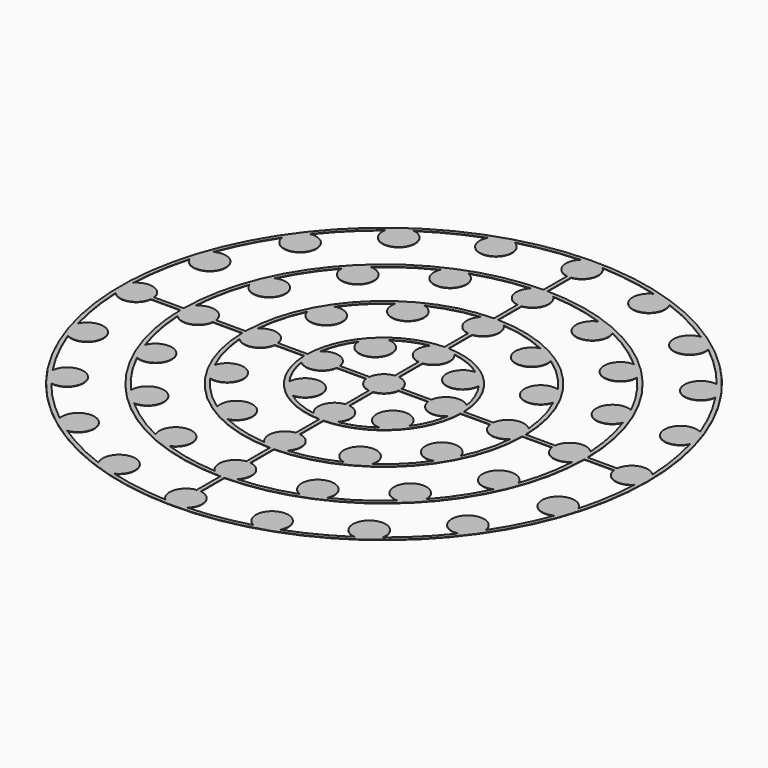
from build123d import *

# Parameters (mm, degrees)
SKETCH001_R           = 130
PAD_DEPTH             = 0.2
SKETCH002_R           = 8
PAD001_DEPTH          = 0.2
POLARPATTERN_COUNT    = 20
SKETCH003_R           = 8
PAD002_DEPTH          = 0.2
POLARPATTERN001_COUNT = 16
SKETCH004_R           = 8
PAD003_DEPTH          = 0.2
POLARPATTERN002_COUNT = 12
SKETCH005_R           = 8
PAD004_DEPTH          = 0.2
POLARPATTERN003_COUNT = 8


with BuildPart() as part:
    # Sketch001 → Pad (new body)
    with BuildSketch(Plane.XY):
        Circle(SKETCH001_R)
        with BuildLine():
            ThreePointArc((-1, 127.996094), (-90.509668, 90.509668), (-127.996094, 1))
            Line((-127.996094, 1), (-99.494975, 1))
            ThreePointArc((-1, 99.494975), (-70.357125, 70.357125), (-99.494975, 1))
            Line((-1, 127.996094), (-1, 99.494975))
        make_face(mode=Mode.SUBTRACT)
        with BuildLine():
            ThreePointArc((127.996094, 1), (90.509668, 90.509668), (1, 127.996094))
            Line((1, 99.494975), (1, 127.996094))
            ThreePointArc((99.494975, 1), (70.357125, 70.357125), (1, 99.494975))
            Line((99.494975, 1), (127.996094, 1))
        make_face(mode=Mode.SUBTRACT)
        with BuildLine():
            ThreePointArc((1, -127.996094), (90.509668, -90.509668), (127.996094, -1))
            Line((127.996094, -1), (99.494975, -1))
            ThreePointArc((1, -99.494975), (70.357125, -70.357125), (99.494975, -1))
            Line((1, -99.494975), (1, -127.996094))
        make_face(mode=Mode.SUBTRACT)
        with BuildLine():
            ThreePointArc((-127.996094, -1), (-90.509668, -90.509668), (-1, -127.996094))
            Line((-1, -127.996094), (-1, -99.494975))
            ThreePointArc((-99.494975, -1), (-70.357125, -70.357125), (-1, -99.494975))
            Line((-99.494975, -1), (-127.996094, -1))
        make_face(mode=Mode.SUBTRACT)
        with BuildLine():
            ThreePointArc((-1, 97.494872), (-68.942911, 68.942911), (-97.494872, 1))
            Line((-97.494872, 1), (-68.992753, 1))
            ThreePointArc((-1, 68.992753), (-48.790368, 48.790368), (-68.992753, 1))
            Line((-1, 97.494872), (-1, 68.992753))
        make_face(mode=Mode.SUBTRACT)
        with BuildLine():
            ThreePointArc((97.494872, 1), (68.942911, 68.942911), (1, 97.494872))
            Line((1, 97.494872), (1, 68.992753))
            ThreePointArc((68.992753, 1), (48.790368, 48.790368), (1, 68.992753))
            Line((68.992753, 1), (97.494872, 1))
        make_face(mode=Mode.SUBTRACT)
        with BuildLine():
            ThreePointArc((1, -97.494872), (68.942911, -68.942911), (97.494872, -1))
            Line((97.494872, -1), (68.992753, -1))
            ThreePointArc((1, -68.992753), (48.790368, -48.790368), (68.992753, -1))
            Line((1, -68.992753), (1, -97.494872))
        make_face(mode=Mode.SUBTRACT)
        with BuildLine():
            ThreePointArc((-97.494872, -1), (-68.942911, -68.942911), (-1, -97.494872))
            Line((-1, -97.494872), (-1, -68.992753))
            ThreePointArc((-68.992753, -1), (-48.790368, -48.790368), (-1, -68.992753))
            Line((-68.992753, -1), (-97.494872, -1))
        make_face(mode=Mode.SUBTRACT)
        with BuildLine():
            ThreePointArc((-1, 66.992537), (-47.376154, 47.376154), (-66.992537, 1))
            Line((-66.992537, 1), (-38.487011, 1))
            ThreePointArc((-1, 38.487011), (-27.223611, 27.223611), (-38.487011, 1))
            Line((-1, 66.992537), (-1, 38.487011))
        make_face(mode=Mode.SUBTRACT)
        with BuildLine():
            ThreePointArc((66.992537, 1), (47.376154, 47.376154), (1, 66.992537))
            Line((1, 66.992537), (1, 38.487011))
            ThreePointArc((38.487011, 1), (27.223611, 27.223611), (1, 38.487011))
            Line((38.487011, 1), (66.992537, 1))
        make_face(mode=Mode.SUBTRACT)
        with BuildLine():
            ThreePointArc((1, -66.992537), (47.376154, -47.376154), (66.992537, -1))
            Line((66.992537, -1), (38.487011, -1))
            ThreePointArc((1, -38.487011), (27.223611, -27.223611), (38.487011, -1))
            Line((1, -38.487011), (1, -66.992537))
        make_face(mode=Mode.SUBTRACT)
        with BuildLine():
            ThreePointArc((-66.992537, -1), (-47.376154, -47.376154), (-1, -66.992537))
            Line((-1, -66.992537), (-1, -38.487011))
            ThreePointArc((-38.487011, -1), (-27.223611, -27.223611), (-1, -38.487011))
            Line((-38.487011, -1), (-66.992537, -1))
        make_face(mode=Mode.SUBTRACT)
        with BuildLine():
            ThreePointArc((-1, 36.486299), (-25.809398, 25.809398), (-36.486299, 1))
            Line((-36.486299, 1), (-7.937254, 1))
            ThreePointArc((-1, 7.937254), (-5.656854, 5.656854), (-7.937254, 1))
            Line((-1, 36.486299), (-1, 7.937254))
        make_face(mode=Mode.SUBTRACT)
        with BuildLine():
            ThreePointArc((36.486299, 1), (25.809398, 25.809398), (1, 36.486299))
            Line((1, 36.486299), (1, 7.937254))
            ThreePointArc((7.937254, 1), (5.656854, 5.656854), (1, 7.937254))
            Line((7.937254, 1), (36.486299, 1))
        make_face(mode=Mode.SUBTRACT)
        with BuildLine():
            ThreePointArc((1, -36.486299), (25.809398, -25.809398), (36.486299, -1))
            Line((36.486299, -1), (7.937254, -1))
            ThreePointArc((1, -7.937254), (5.656854, -5.656854), (7.937254, -1))
            Line((1, -7.937254), (1, -36.486299))
        make_face(mode=Mode.SUBTRACT)
        with BuildLine():
            ThreePointArc((-36.486299, -1), (-25.809398, -25.809398), (-1, -36.486299))
            Line((-1, -36.486299), (-1, -7.937254))
            ThreePointArc((-7.937254, -1), (-5.656854, -5.656854), (-1, -7.937254))
            Line((-7.937254, -1), (-36.486299, -1))
        make_face(mode=Mode.SUBTRACT)
    extrude(amount=PAD_DEPTH)

    # Sketch002 → Pad001 (join)
    with BuildSketch(Plane.XY):
        with Locations((-122, 0)):
            Circle(SKETCH002_R)
    pad001 = extrude(amount=PAD001_DEPTH)

    # PolarPattern: Pad001 ×20 about axis
    polarpattern_axis = Axis((0, 0, 0), (0, 0, 1))
    for i in range(1, POLARPATTERN_COUNT):
        add(pad001.rotate(polarpattern_axis, i * 360 / POLARPATTERN_COUNT))

    # Sketch003 → Pad002 (join)
    with BuildSketch(Plane.XY):
        with Locations((-91.5, 0)):
            Circle(SKETCH003_R)
    pad002 = extrude(amount=PAD002_DEPTH)

    # PolarPattern001: Pad002 ×16 about axis
    polarpattern001_axis = Axis((0, 0, 0), (0, 0, 1))
    for i in range(1, POLARPATTERN001_COUNT):
        add(pad002.rotate(polarpattern001_axis, i * 360 / POLARPATTERN001_COUNT))

    # Sketch004 → Pad003 (join)
    with BuildSketch(Plane.XY):
        with Locations((-61, 0)):
            Circle(SKETCH004_R)
    pad003 = extrude(amount=PAD003_DEPTH)

    # PolarPattern002: Pad003 ×12 about axis
    polarpattern002_axis = Axis((0, 0, 0), (0, 0, 1))
    for i in range(1, POLARPATTERN002_COUNT):
        add(pad003.rotate(polarpattern002_axis, i * 360 / POLARPATTERN002_COUNT))

    # Sketch005 → Pad004 (join)
    with BuildSketch(Plane.XY):
        with Locations((-30.5, 0)):
            Circle(SKETCH005_R)
    pad004 = extrude(amount=PAD004_DEPTH)

    # PolarPattern003: Pad004 ×8 about axis
    polarpattern003_axis = Axis((0, 0, 0), (0, 0, 1))
    for i in range(1, POLARPATTERN003_COUNT):
        add(pad004.rotate(polarpattern003_axis, i * 360 / POLARPATTERN003_COUNT))


solid = part.part
